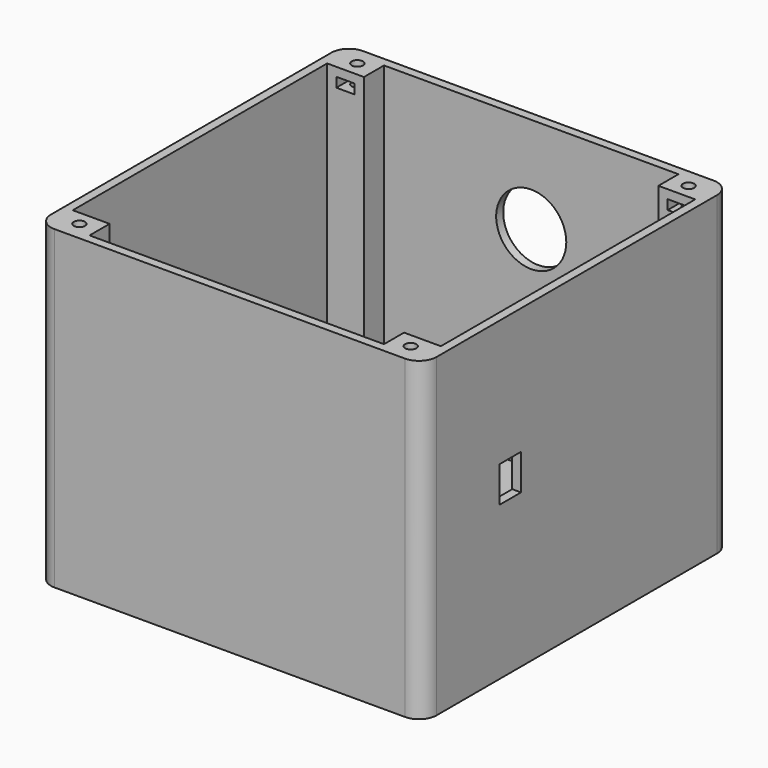
from build123d import *

# Parameters (mm, degrees)
PAD_DEPTH       = 180
SKETCH001_W     = 168
SKETCH001_H     = 210
POCKET_DEPTH    = 175
SKETCH002_W     = 210
SKETCH002_H     = 181.4
POCKET001_DEPTH = 175
POCKET002_DEPTH = 5.5
SKETCH004_W     = 10.5
SKETCH004_H     = 21.8
POCKET003_DEPTH = 5.5
SKETCH005_R     = 3.2
POCKET004_DEPTH = 100
SKETCH006_W     = 15.4
SKETCH006_H     = 20.4
POCKET005_DEPTH = 5
SKETCH007_R     = 20
POCKET006_DEPTH = 5
SKETCH008_R     = 19
SKETCH008_R_2   = 2.2
POCKET007_DEPTH = 180.001
SKETCH052_R     = 5.049841
POCKET042_DEPTH = 5


with BuildPart() as part:
    # Sketch → Pad (new body)
    with BuildSketch(Plane.XY):
        with BuildLine():
            Line((-100, 110), (100, 110))
            ThreePointArc((110, 100), (107.071068, 107.071068), (100, 110))
            Line((110, 100), (110, -100))
            ThreePointArc((100, -110), (107.071068, -107.071068), (110, -100))
            Line((100, -110), (-100, -110))
            ThreePointArc((-110, -100), (-107.071068, -107.071068), (-100, -110))
            Line((-110, -100), (-110, 100))
            ThreePointArc((-100, 110), (-107.071068, 107.071068), (-110, 100))
        make_face()
    extrude(amount=PAD_DEPTH)

    # Sketch001 (on DatumPlane) → Pocket (cut)
    with BuildSketch(Plane.XY.offset(180)):
        Rectangle(SKETCH001_W, SKETCH001_H)
    extrude(amount=-POCKET_DEPTH, mode=Mode.SUBTRACT)

    # Sketch002 (on DatumPlane) → Pocket001 (cut)
    with BuildSketch(Plane.XY.offset(180)):
        Rectangle(SKETCH002_W, SKETCH002_H)
    extrude(amount=-POCKET001_DEPTH, mode=Mode.SUBTRACT)

    # Sketch003 (on DatumPlane) → Pocket002 (cut)
    with BuildSketch(Plane.XY.offset(175)):
        Polygon((89.39045, 96.15), (94.5, 93.2), (99.60955, 96.15), (99.60955, 102.05), (94.5, 105), (89.39045, 102.05), align=None)
        Polygon((99.60955, -102.05), (99.60955, -96.15), (94.5, -93.2), (89.39045, -96.15), (89.39045, -102.05), (94.5, -105), align=None)
        Polygon((-89.39045, -102.05), (-89.39045, -96.15), (-94.5, -93.2), (-99.60955, -96.15), (-99.60955, -102.05), (-94.5, -105), align=None)
        Polygon((-89.39045, 96.15), (-89.39045, 102.05), (-94.5, 105), (-99.60955, 102.05), (-99.60955, 96.15), (-94.5, 93.2), align=None)
    extrude(amount=-POCKET002_DEPTH, mode=Mode.SUBTRACT)

    # Sketch004 (on DatumPlane) → Pocket003 (cut)
    with BuildSketch(Plane.XY.offset(175)):
        with Locations((-94.5, 88.2)):
            Rectangle(SKETCH004_W, SKETCH004_H)
        with Locations((94.5, 88.2)):
            Rectangle(SKETCH004_W, SKETCH004_H)
        with Locations((-94.5, -88.2)):
            Rectangle(SKETCH004_W, SKETCH004_H)
        with Locations((94.5, -88.2)):
            Rectangle(SKETCH004_W, SKETCH004_H)
    extrude(amount=-POCKET003_DEPTH, mode=Mode.SUBTRACT)

    # Sketch005 (on DatumPlane) → Pocket004 (cut)
    with BuildSketch(Plane.XY.offset(180)):
        with Locations((-94.5, 99.1)):
            Circle(SKETCH005_R)
        with Locations((94.5, 99.1)):
            Circle(SKETCH005_R)
        with Locations((-94.5, -99.1)):
            Circle(SKETCH005_R)
        with Locations((94.5, -99.1)):
            Circle(SKETCH005_R)
    extrude(amount=-POCKET004_DEPTH, mode=Mode.SUBTRACT)

    # Sketch006 (on DatumPlane) → Pocket005 (cut)
    with BuildSketch(Plane.YZ.offset(110)):
        with Locations((-47.5, 97.7)):
            Rectangle(SKETCH006_W, SKETCH006_H)
    extrude(amount=-POCKET005_DEPTH, mode=Mode.SUBTRACT)

    # Sketch007 (on DatumPlane) → Pocket006 (cut)
    with BuildSketch(Plane.XZ.offset(-110)):
        with Locations((0, 125)):
            Circle(SKETCH007_R)
    extrude(amount=POCKET006_DEPTH, mode=Mode.SUBTRACT)

    # Sketch008 (on DatumPlane) → Pocket007 (cut, through all)
    with BuildSketch(Plane.XY.offset(180)):
        with Locations((0, -7)):
            Circle(SKETCH008_R)
        with Locations((0, 28)):
            Circle(SKETCH008_R_2)
        with Locations((28, 0)):
            Circle(SKETCH008_R_2)
        with Locations((-28, 0)):
            Circle(SKETCH008_R_2)
        with Locations((0, -33)):
            Circle(SKETCH008_R_2)
    extrude(amount=-POCKET007_DEPTH, mode=Mode.SUBTRACT)

    # Sketch052 (on Face37 of Pocket007) → Pocket042 (cut)
    with BuildSketch(Plane.XY.offset(5)):
        with Locations((0, -67.5)):
            Circle(SKETCH052_R)
    extrude(amount=-POCKET042_DEPTH, mode=Mode.SUBTRACT)


solid = part.part
